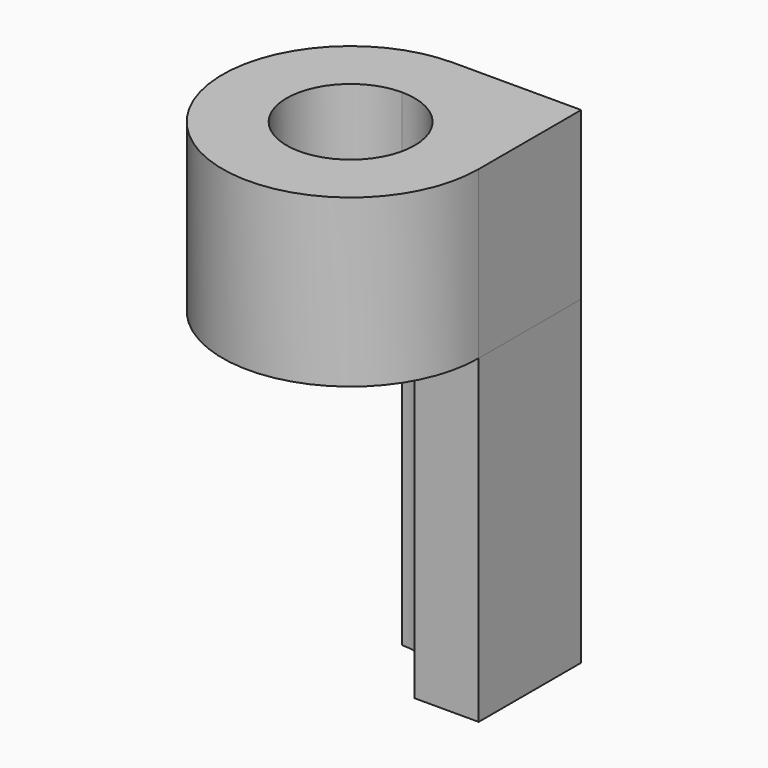
from build123d import *

# Parameters (mm, degrees)
F1_DEPTH = 65
F2_DEPTH = 125


with BuildPart() as f1:
    # F0 (on Top) → F1 (new body)
    with BuildSketch(Plane.XY):
        with BuildLine():
            Line((50, 0), (25, 0))
            ThreePointArc((25, 0), (-17.6776695297, -17.6776695297), (0, 25))
            Line((0, 25), (0, 50))
            ThreePointArc((0, 50), (-35.3553390593, -35.3553390593), (50, 0))
        make_face()
        with BuildLine():
            ThreePointArc((0, 25), (17.6776695297, 17.6776695297), (25, 0))
            Line((25, 0), (50, 0))
            ThreePointArc((50, 0), (35.3553390593, 35.3553390593), (0, 50))
            Line((0, 50), (0, 25))
        make_face()
        with BuildLine():
            Line((50, 0), (25, 0))
            ThreePointArc((25, 0), (-17.6776695297, -17.6776695297), (0, 25))
            Line((0, 25), (0, 50))
            ThreePointArc((0, 50), (-35.3553390593, -35.3553390593), (50, 0))
        make_face()
        with BuildLine():
            ThreePointArc((0, 50), (35.3553390593, 35.3553390593), (50, 0))
            Line((50, 0), (50, 50))
            Line((50, 50), (0, 50))
        make_face()
        with BuildLine():
            ThreePointArc((0, 50), (35.3553390593, 35.3553390593), (50, 0))
            Line((50, 0), (50, 50))
            Line((50, 50), (0, 50))
        make_face()
        with BuildLine():
            ThreePointArc((0, 25), (17.6776695297, 17.6776695297), (25, 0))
            Line((25, 0), (50, 0))
            ThreePointArc((50, 0), (35.3553390593, 35.3553390593), (0, 50))
            Line((0, 50), (0, 25))
        make_face()
    extrude(amount=F1_DEPTH)

    # F0 (on Top) → F2 (join)
    with BuildSketch(Plane.XY):
        with BuildLine():
            ThreePointArc((0, 25), (17.6776695297, 17.6776695297), (25, 0))
            Line((25, 0), (50, 0))
            ThreePointArc((50, 0), (35.3553390593, 35.3553390593), (0, 50))
            Line((0, 50), (0, 25))
        make_face()
        with BuildLine():
            ThreePointArc((0, 50), (35.3553390593, 35.3553390593), (50, 0))
            Line((50, 0), (50, 50))
            Line((50, 50), (0, 50))
        make_face()
    extrude(amount=-F2_DEPTH)


solid = f1.part
